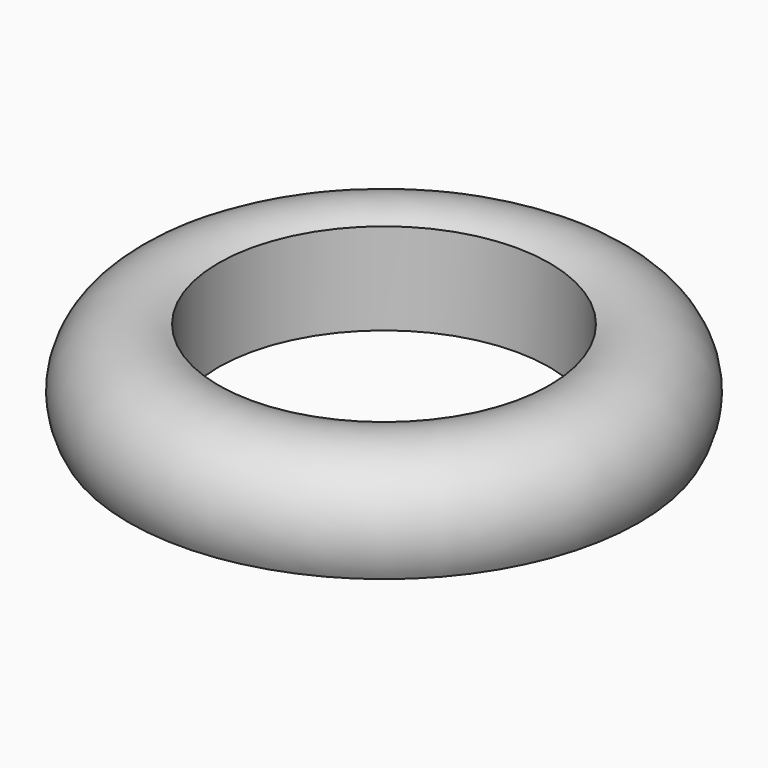
from build123d import *


with BuildPart() as f1:
    # F0 (on Front) → F1 (revolve)
    with BuildSketch(Plane.XZ):
        with BuildLine():
            ThreePointArc((27.538328, 0), (24.378744, 24.455169), (0, 28.158559))
            Line((0, 28.158559), (0, 0))
            Line((0, 0), (27.538328, 0))
        make_face()
    revolve(axis=Axis((-50.859071, 0, -8.931347), (0, 0, -1)))


solid = f1.part
